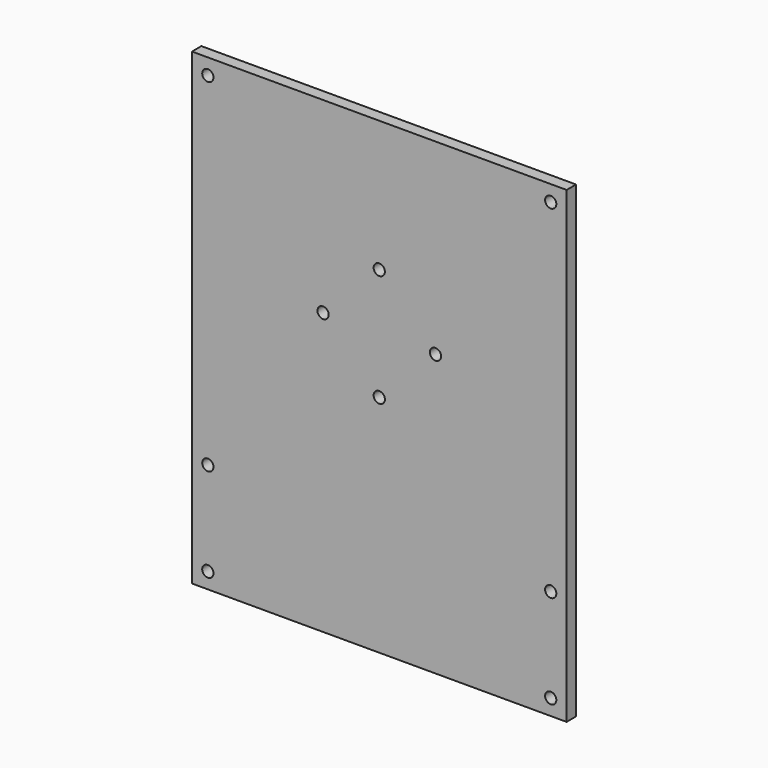
from build123d import *

# Parameters (mm, degrees)
F0_R     = 1.5
F1_DEPTH = 3.15


with BuildPart() as f1:
    # F0 (on Front) → F1 (new body)
    with BuildSketch(Plane.XZ):
        Polygon((50, -50), (50, 50), (-50, 50), (-50, -50), (-50, -75), (50, -75), align=None)
        with Locations((-45.76, -70.76)):
            Circle(F0_R, mode=Mode.SUBTRACT)
        with Locations((-45.757359, -45.757359)):
            Circle(F0_R, mode=Mode.SUBTRACT)
        with Locations((45.76, -70.76)):
            Circle(F0_R, mode=Mode.SUBTRACT)
        with Locations((45.757359, -45.757359)):
            Circle(F0_R, mode=Mode.SUBTRACT)
        with Locations((0, -15)):
            Circle(F0_R, mode=Mode.SUBTRACT)
        with Locations((-15, 0)):
            Circle(F0_R, mode=Mode.SUBTRACT)
        with Locations((-45.757359, 45.757359)):
            Circle(F0_R, mode=Mode.SUBTRACT)
        with Locations((15, 0)):
            Circle(F0_R, mode=Mode.SUBTRACT)
        with Locations((0, 15)):
            Circle(F0_R, mode=Mode.SUBTRACT)
        with Locations((45.757359, 45.757359)):
            Circle(F0_R, mode=Mode.SUBTRACT)
    extrude(amount=F1_DEPTH)


solid = f1.part
